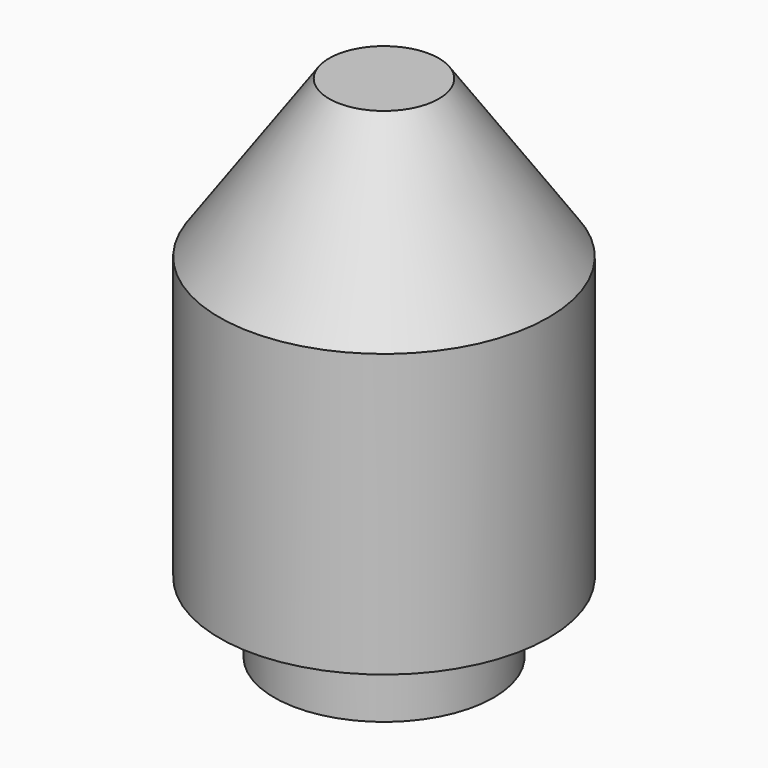
from build123d import *

# Parameters (mm, degrees)
F0_R     = 7.5
F1_DEPTH = 20
F2_SIZE2 = 7.1407400337
F2_SIZE  = 5
F3_R     = 5
F4_DEPTH = 3.2


with BuildPart() as f1:
    # F0 (on Top) → F1 (new body)
    with BuildSketch(Plane.XY):
        Circle(F0_R)
    extrude(amount=F1_DEPTH)

    # F2
    f2_edges = [f1.edges().sort_by_distance(p)[0] for p in [
        (-7.5, 0, 20),
    ]]
    f2_side = f1.faces().sort_by_distance((0, 0, 20))[0]
    chamfer(f2_edges, length=F2_SIZE, length2=F2_SIZE2, reference=f2_side)

    # F3 (on Top) → F4 (join)
    with BuildSketch(Plane.XY):
        Circle(F3_R)
    extrude(amount=-F4_DEPTH)


solid = f1.part
